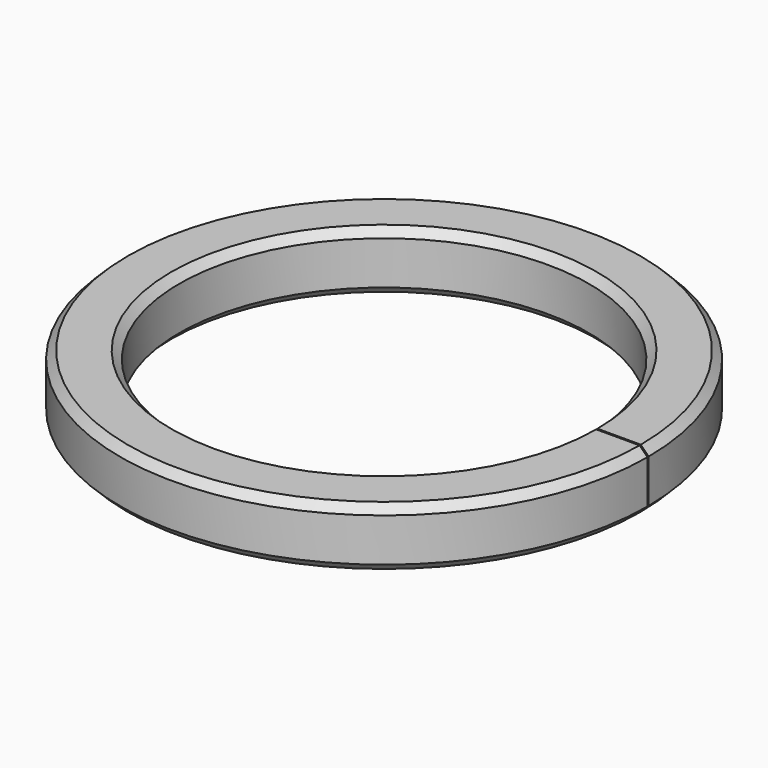
from build123d import *

# Parameters (mm, degrees)
F1_DEPTH = 9.525
F2_SIZE  = 1.27


with BuildPart() as f1:
    # F0 (on Top) → F1 (new body)
    with BuildSketch(Plane.XY):
        with BuildLine():
            ThreePointArc((33.019756, -0.127), (-33.02, 0), (33.019756, 0.126999))
            Line((33.019756, 0.126999), (42.54481, 0.126999))
            ThreePointArc((42.54481, 0.126999), (-42.545, 0), (42.54481, -0.126999))
            Line((42.54481, -0.126999), (33.019756, -0.127))
        make_face()
    extrude(amount=F1_DEPTH)

    # F2
    f2_edges = [f1.edges().sort_by_distance(p)[0] for p in [
        (-42.545, 0, 9.525),
        (-42.545, 0, 0),
        (-33.02, 0, 9.525),
        (-33.02, 0, 0),
    ]]
    chamfer(f2_edges, length=F2_SIZE)


solid = f1.part
